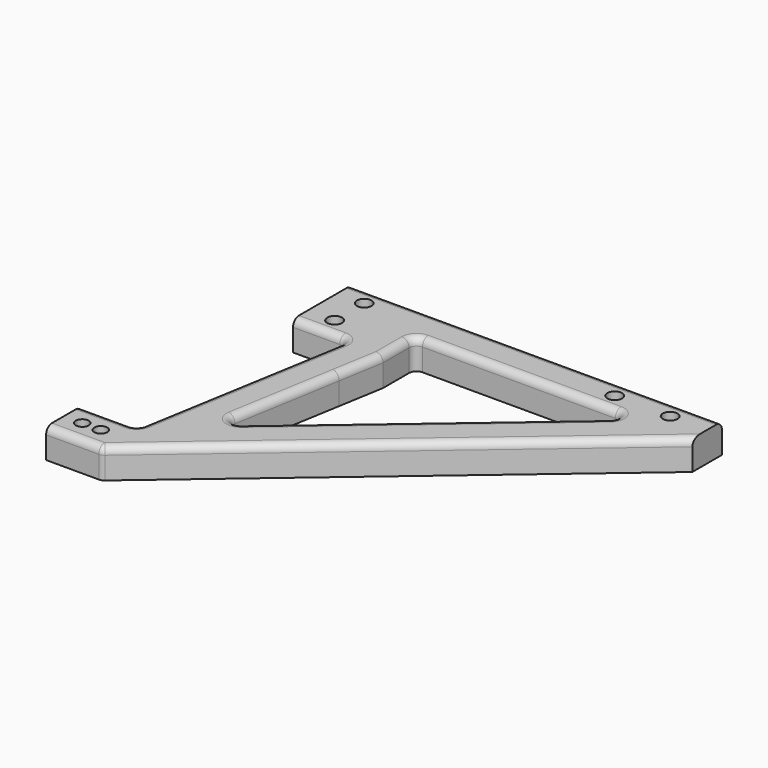
from build123d import *

# Parameters (mm, degrees)
F0_R      = 2
F1_DEPTH  = 10
F2_R      = 5
F4_R      = 2
F5_DEPTH  = 10
F7_R      = 5
F7_2_R    = 5
F8_R      = 2
F8_2_R    = 2
F10_DEPTH = 25
F11_R     = 1.5
F12_R     = 1.75
F13_DEPTH = 12.5
F15_W     = 9
F15_H     = 20
F16_DEPTH = 10
F17_W     = 6
F17_H     = 20
F18_DEPTH = 25
F21_R     = 2
F22_DEPTH = 30
F24_R     = 2
F25_DEPTH = 12.5
F27_R     = 2
F28_R     = 2
F29_DEPTH = 8
F30_R     = 2
F31_R     = 2
F32_R     = 1.75
F33_DEPTH = 25
F32_R_2   = 2
F37_ANGLE = 90
F40_W     = 60
F40_H     = 10
F40_R     = 2
F41_DEPTH = 8
F43_R     = 1.5


with BuildPart() as f1:
    # F0 (on Top) → F1 (new body)
    with BuildSketch(Plane.XY):
        Polygon((0, 70), (0, 75), (-20, 75), (-30, 75), (-50, -75), (-40, -75), (0, -75), (0, -65), (-38.6666666667, -65), (-30.8, -6), (0, -6), (0, 0), (0, 6), (-29.2, 6), (-21.3333333333, 65), (0, 65), align=None)
        with Locations((-15, 0)):
            Circle(F0_R, mode=Mode.SUBTRACT)
        with Locations((-10.4101235047, 70)):
            Circle(F0_R, mode=Mode.SUBTRACT)
    extrude(amount=F1_DEPTH)

    # F2
    f2_edges = [f1.edges().sort_by_distance(p)[0] for p in [
        (-21.333333, 65, 5),
        (-30.8, -6, 5),
        (-29.2, 6, 5),
        (-38.666667, -65, 5),
        (-50, -75, 5),
    ]]
    fillet(f2_edges, radius=F2_R)

    # F3: F1 across plane


with BuildPart() as f1_1:
    add(f1.part)
    add(f1.part.mirror(Plane.YZ))

    # F4 (on Top) → F5 (join)
    with BuildSketch(Plane.XY):
        with BuildLine():
            Line((0, 80), (0, 75))
            Line((0, 75), (10, 75))
            Line((10, 75), (30, 75))
            Line((30, 75), (13.3333333333, 200))
            Line((13.3333333333, 200), (4.5, 200))
            Line((4.5, 200), (4.5, 192))
            ThreePointArc((4.5, 192), (3.1819805153, 188.8180194847), (0, 187.5))
            Line((0, 187.5), (0, 170.1721444783))
            Line((0, 170.1721444783), (7.3103807362, 170.1721444783))
            Line((7.3103807362, 170.1721444783), (10, 150))
            Line((10, 150), (18.6666666667, 85))
            Line((18.6666666667, 85), (10, 85))
            Line((10, 85), (0, 85))
            Line((0, 85), (0, 80))
        make_face()
        with Locations((10, 80)):
            Circle(F4_R, mode=Mode.SUBTRACT)
    extrude(amount=F5_DEPTH)


with BuildPart() as f6_1:
    # F6: instance of F1
    add(f1_1.part.mirror(Plane.YZ))

    # F7
    f7_edges = [f6_1.edges().sort_by_distance(p)[0] for p in [
        (-7.310381, 170.172144, 5),
        (-18.666667, 85, 5),
        (-13.333333, 200, 5),
    ]]
    fillet(f7_edges, radius=F7_R)

    # F8#2
    f8_2_edges = [f6_1.edges().sort_by_distance(p)[0] for p in [
        (-4.5, 200, 5),
    ]]
    fillet(f8_2_edges, radius=F8_2_R)


with BuildPart() as f1_2:
    add(f1_1.part)

    # F7#2
    f7_2_edges = [f1_2.edges().sort_by_distance(p)[0] for p in [
        (7.310381, 170.172144, 5),
        (18.666667, 85, 5),
        (13.333333, 200, 5),
    ]]
    fillet(f7_2_edges, radius=F7_2_R)

    # F8
    f8_edges = [f1_2.edges().sort_by_distance(p)[0] for p in [
        (4.5, 200, 5),
    ]]
    fillet(f8_edges, radius=F8_R)

    add(f6_1.part)  # F10 merges F6_1
    # F9 (on Top) → F10 (join)
    with BuildSketch(Plane.XY):
        Polygon((0, -6), (0, 0), (0, 6), (-6, 6), (-6, -6), align=None)
    extrude(amount=F10_DEPTH)

    # F11
    f11_edges = [f1_2.edges().sort_by_distance(p)[0] for p in [
        (-6, -6, 17.5),
        (-6, 0, 25),
        (-3, -6, 25),
        (-6, 6, 17.5),
        (-3, 6, 25),
    ]]
    fillet(f11_edges, radius=F11_R)


with BuildPart() as f13:
    # F12 (on Right) → F13 (new body, symmetric)
    with BuildSketch(Plane.YZ):
        with Locations((0, 20)):
            Circle(F12_R)
    extrude(amount=F13_DEPTH, both=True)


with BuildPart() as f13b:
    # F12 (on Right) → F13, piece 2 (new body, symmetric)
    with BuildSketch(Plane.YZ):
        with Locations((0, 15)):
            Circle(F12_R)
    extrude(amount=F13_DEPTH, both=True)


with BuildPart() as f1_3:
    add(f1_2.part)

    # F14: cut F13b, F13
    add(f13b.part, mode=Mode.SUBTRACT)
    add(f13.part, mode=Mode.SUBTRACT)


with BuildPart() as f16:
    # F15 (on Top) → F16 (new body)
    with BuildSketch(Plane.XY):
        Polygon((0, 65), (15, 65), (15, 85), (0, 85), (0, 75), align=None)
        Polygon((-6, 65), (0, 65), (0, 75), (0, 85), (-6, 85), align=None)
        with Locations((-10.5, 75)):
            Rectangle(F15_W, F15_H)
    extrude(amount=F16_DEPTH)


with BuildPart() as f18:
    # F17 (on Top) → F18 (new body)
    with BuildSketch(Plane.XY):
        with Locations((-3, 75)):
            Rectangle(F17_W, F17_H)
    extrude(amount=F18_DEPTH)


with BuildPart() as f16_1:
    add(f16.part)

    # F19: union F18
    add(f18.part)


with BuildPart() as f16_2:
    # F20: moved
    add(f16_1.part.moved(Location((0, 0, 10))))


with BuildPart() as f22:
    # F21 (on Top) → F22 (new body)
    with BuildSketch(Plane.XY):
        with Locations((-10, 80)):
            Circle(F21_R)
    extrude(amount=F22_DEPTH)


with BuildPart() as f22b:
    # F21 (on Top) → F22, piece 2 (new body)
    with BuildSketch(Plane.XY):
        with Locations((10, 80)):
            Circle(F21_R)
    extrude(amount=F22_DEPTH)


with BuildPart() as f22c:
    # F21 (on Top) → F22, piece 3 (new body)
    with BuildSketch(Plane.XY):
        with Locations((-10.4, 70)):
            Circle(F21_R)
    extrude(amount=F22_DEPTH)


with BuildPart() as f22d:
    # F21 (on Top) → F22, piece 4 (new body)
    with BuildSketch(Plane.XY):
        with Locations((10.4, 70)):
            Circle(F21_R)
    extrude(amount=F22_DEPTH)


with BuildPart() as f16_3:
    add(f16_2.part)

    # F23: cut F22d, F22c, F22b, F22
    add(f22d.part, mode=Mode.SUBTRACT)
    add(f22c.part, mode=Mode.SUBTRACT)
    add(f22b.part, mode=Mode.SUBTRACT)
    add(f22.part, mode=Mode.SUBTRACT)


with BuildPart() as f25:
    # F24 (on Right) → F25 (new body, symmetric)
    with BuildSketch(Plane.YZ):
        with Locations((80, 27.2266920656)):
            Circle(F24_R)
    extrude(amount=F25_DEPTH, both=True)


with BuildPart() as f25b:
    # F24 (on Right) → F25, piece 2 (new body, symmetric)
    with BuildSketch(Plane.YZ):
        with Locations((70, 27.2266920656)):
            Circle(F24_R)
    extrude(amount=F25_DEPTH, both=True)


with BuildPart() as f16_4:
    add(f16_3.part)

    # F26: cut F25b, F25
    add(f25b.part, mode=Mode.SUBTRACT)
    add(f25.part, mode=Mode.SUBTRACT)

    # F27
    f27_edges = [f16_4.edges().sort_by_distance(p)[0] for p in [
        (-6, 65, 27.5),
        (-3, 65, 35),
        (-10.5, 65, 20),
        (-15, 65, 15),
        (7.5, 65, 20),
        (15, 65, 15),
        (15, 75, 10),
        (-15, 75, 10),
        (-6, 75, 35),
        (-10.5, 85, 20),
        (-15, 85, 15),
        (-6, 85, 27.5),
        (-3, 85, 35),
        (7.5, 85, 20),
        (15, 85, 15),
    ]]
    fillet(f27_edges, radius=F27_R)


with BuildPart() as f29:
    # F28 (on Right) → F29 (new body)
    with BuildSketch(Plane.YZ):
        Polygon((-6, 10), (0, 10), (6, 10), (6, 25), (65, 35), (65, 20), (75, 20), (85, 20), (85, 35), (85, 120), (75, 120), (-6, 25), align=None)
        Polygon((17.4430621123, 37.0821219176), (23.9249371816, 44.6843210729), (75, 104.5871725266), (75, 45), (64.1585427985, 45), (51.9163602293, 42.9250538018), align=None, mode=Mode.SUBTRACT)
        with Locations((80, 95)):
            Circle(F28_R, mode=Mode.SUBTRACT)
        with Locations((80, 110)):
            Circle(F28_R, mode=Mode.SUBTRACT)
    extrude(amount=F29_DEPTH)

    # F30
    f30_edges = [f29.edges().sort_by_distance(p)[0] for p in [
        (4, 75, 104.587173),
        (4, 75, 45),
        (4, 17.443062, 37.082122),
        (4, 65, 35),
        (4, 6, 25),
        (4, -6, 25),
    ]]
    fillet(f30_edges, radius=F30_R)

    # F31
    f31_edges = [f29.edges().sort_by_distance(p)[0] for p in [
        (8, 46.246648, 70.864105),
        (8, 34.73905, 72.780367),
        (8, 35.165784, 29.943353),
        (8, 85, 70),
    ]]
    fillet(f31_edges, radius=F31_R)


with BuildPart() as f33:
    # F32 (on Right) → F33 (new body)
    with BuildSketch(Plane.YZ):
        with Locations((0, 20)):
            Circle(F32_R)
    extrude(amount=F33_DEPTH)


with BuildPart() as f33b:
    # F32 (on Right) → F33, piece 2 (new body)
    with BuildSketch(Plane.YZ):
        with Locations((0, 15)):
            Circle(F32_R)
    extrude(amount=F33_DEPTH)


with BuildPart() as f33c:
    # F32 (on Right) → F33, piece 3 (new body)
    with BuildSketch(Plane.YZ):
        with Locations((70, 27.25)):
            Circle(F32_R_2)
    extrude(amount=F33_DEPTH)


with BuildPart() as f33d:
    # F32 (on Right) → F33, piece 4 (new body)
    with BuildSketch(Plane.YZ):
        with Locations((80, 27.25)):
            Circle(F32_R_2)
    extrude(amount=F33_DEPTH)


with BuildPart() as f29_1:
    add(f29.part)

    # F34: cut F33d, F33c, F33b, F33
    add(f33d.part, mode=Mode.SUBTRACT)
    add(f33c.part, mode=Mode.SUBTRACT)
    add(f33b.part, mode=Mode.SUBTRACT)
    add(f33.part, mode=Mode.SUBTRACT)


with BuildPart() as f29_2:
    # F37: moved
    add(f29_1.part.rotate(Axis((0, -39.3833108246, 0), (0, -1, 0)), F37_ANGLE))


with BuildPart() as f29_3:
    # F38: moved
    add(f29_2.part.moved(Location((120, -60, 0))))


with BuildPart() as f39_1:
    # F39: instance of F29
    add(f29_3.part.mirror(Plane.YZ))


with BuildPart() as f41:
    # F40 (on Top) → F41 (new body)
    with BuildSketch(Plane.XY):
        with Locations((0, 20)):
            Rectangle(F40_W, F40_H)
        with Locations((-25, 20)):
            Circle(F40_R, mode=Mode.SUBTRACT)
        with Locations((-10, 20)):
            Circle(F40_R, mode=Mode.SUBTRACT)
        with Locations((10, 20)):
            Circle(F40_R, mode=Mode.SUBTRACT)
        with Locations((25, 20)):
            Circle(F40_R, mode=Mode.SUBTRACT)
    extrude(amount=F41_DEPTH)


with BuildPart() as f41_1:
    # F42: moved
    add(f41.part.moved(Location((0, 0, 8))))

    # F43
    f43_edges = [f41_1.edges().sort_by_distance(p)[0] for p in [
        (0, 15, 8),
        (30, 15, 12),
        (30, 25, 12),
        (30, 20, 8),
        (-30, 20, 8),
        (-30, 15, 12),
        (-30, 25, 12),
        (0, 25, 8),
    ]]
    fillet(f43_edges, radius=F43_R)


with BuildPart() as f39_1_1:
    # F45: moved
    add(f39_1.part.moved(Location((50, 0, 0))))


solid = f39_1_1.part
